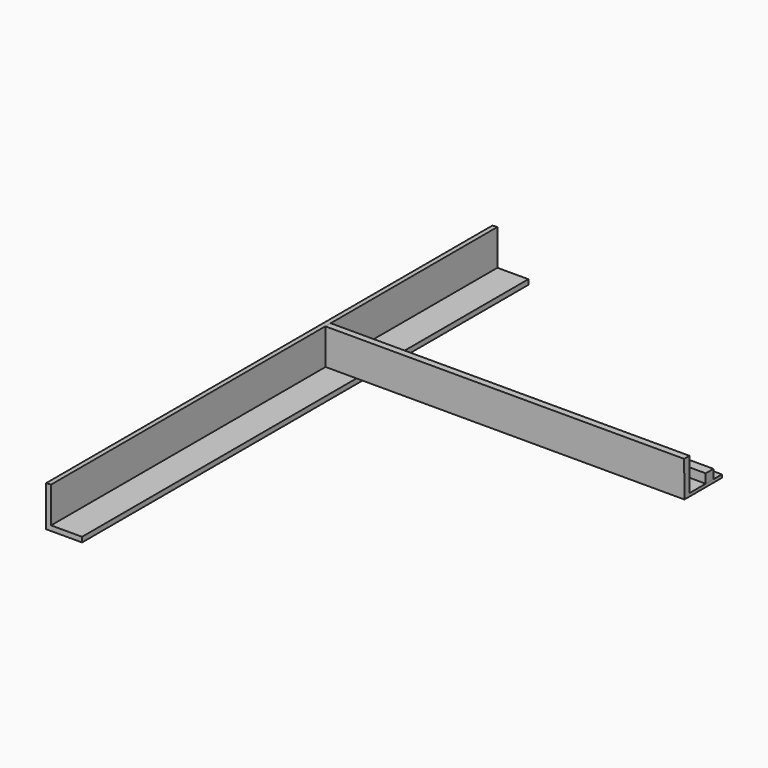
from build123d import *

# Parameters (mm, degrees)
F1_DEPTH = 1525.475025
F3_DEPTH = 981.189966
F4_W     = 981.189966
F4_H     = 26.583612
F5_DEPTH = 25


with BuildPart() as f1:
    # F0 (on Front) → F1 (new body)
    with BuildSketch(Plane.XZ):
        Polygon((-17.392073, 59.94422), (-31.083677, 59.006798), (-31.083677, -51.920526), (67.22746, -51.920526), (67.22746, -38.228922), (-17.392073, -38.228922), align=None)
    extrude(amount=F1_DEPTH)


with BuildPart() as f3:
    # F2 (on face) → F3 (new body)
    with BuildSketch(Plane.YZ.offset(-17.392073)):
        Polygon((-569.941282, 59.94422), (-588.194728, 59.94422), (-587.408304, -38.228922), (-459.171593, -38.228922), (-459.171593, -29.834658), (-569.941282, -29.834658), align=None)
    extrude(amount=F3_DEPTH)


with BuildPart() as f5:
    # F4 (on face) → F5 (new body)
    with BuildSketch(Plane.XY.offset(-29.834658)):
        with Locations((473.20291, -501.264632)):
            Rectangle(F4_W, F4_H)
    extrude(amount=F5_DEPTH)


solid = Compound([f1.part, f3.part, f5.part])
